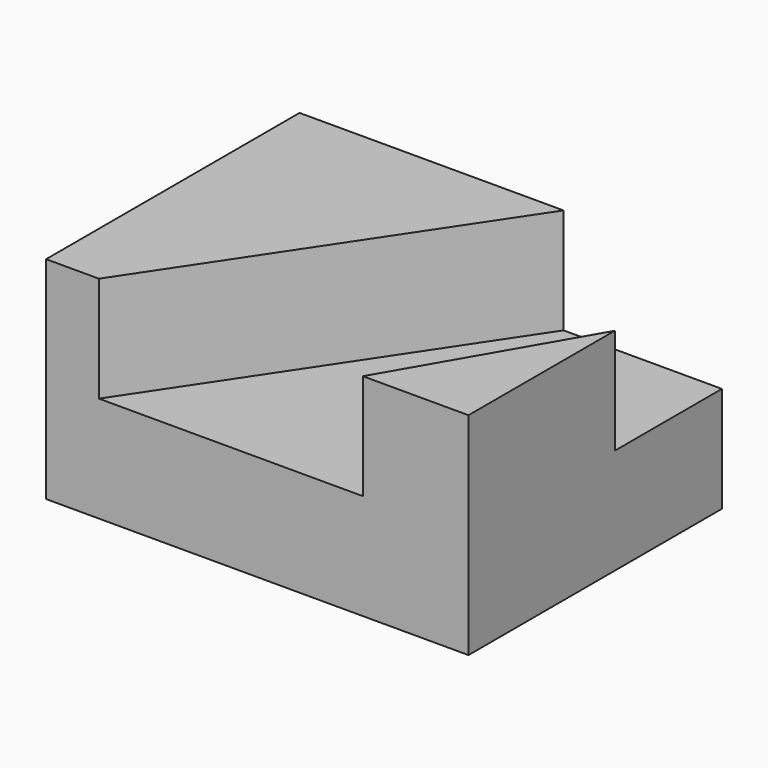
from build123d import *

# Parameters (mm, degrees)
F0_W     = 50.8
F0_H     = 25.4
F1_DEPTH = 38.1
F2_W     = 31.75
F2_H     = 12.7
F3_DEPTH = 38.1
F5_DEPTH = 12.7
F7_DEPTH = 12.7


with BuildPart() as f1:
    # F0 (on Front) → F1 (new body)
    with BuildSketch(Plane.XZ):
        with Locations((25.4, 12.7)):
            Rectangle(F0_W, F0_H)
    extrude(amount=F1_DEPTH)

    # F2 (on face) → F3 (cut)
    with BuildSketch(Plane.XZ.offset(38.1)):
        with Locations((22.225, 19.05)):
            Rectangle(F2_W, F2_H)
    extrude(amount=-F3_DEPTH, mode=Mode.SUBTRACT)

    # F4 (on face) → F5 (join)
    with BuildSketch(Plane.XY.offset(12.7)):
        Polygon((6.35, 0), (6.35, -38.1), (31.75, 0), align=None)
    extrude(amount=F5_DEPTH)

    # F6 (on face) → F7 (cut)
    with BuildSketch(Plane.XY.offset(25.4)):
        Polygon((38.1, 0), (38.1, -38.1), (50.8, -16.1029547439), (50.8, 0), align=None)
    extrude(amount=-F7_DEPTH, mode=Mode.SUBTRACT)


solid = f1.part
